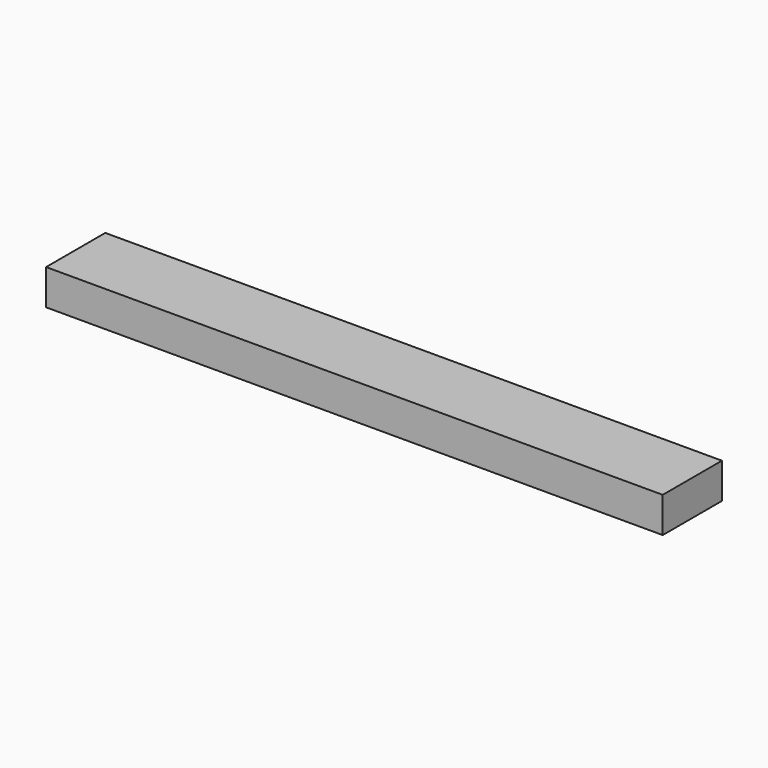
from build123d import *

# Parameters (mm, degrees)
BOX_W     = 400
BOX_H     = 48
BOX_DEPTH = 23


with BuildPart() as part:
    # Box → Box (new body)
    with BuildSketch(Plane.XY):
        with Locations((200, 24)):
            Rectangle(BOX_W, BOX_H)
    extrude(amount=BOX_DEPTH)


solid = part.part
